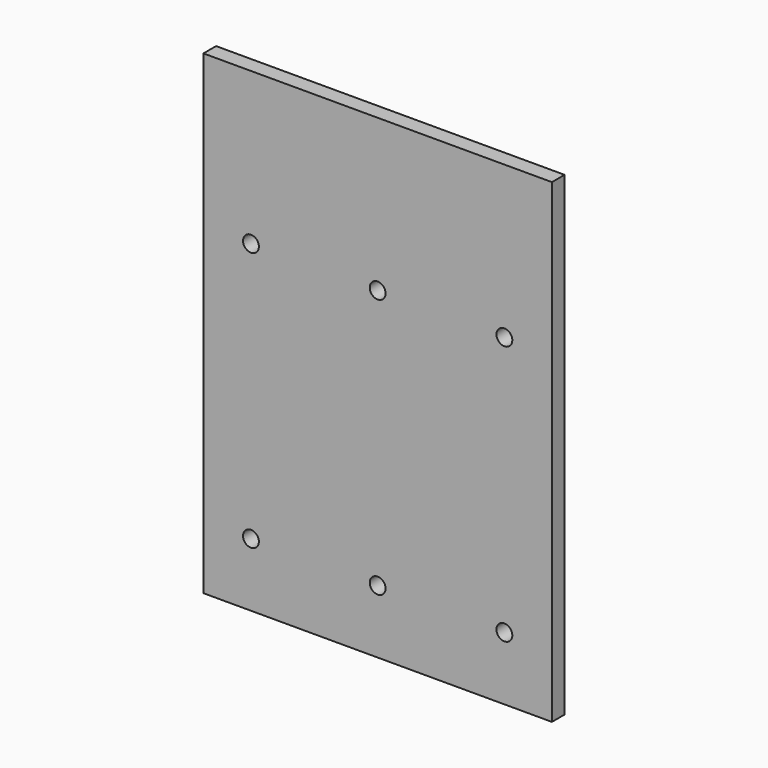
from build123d import *

# Parameters (mm, degrees)
F0_R     = 2.5
F1_DEPTH = 5


with BuildPart() as f1:
    # F0 (on Front) → F1 (new body)
    with BuildSketch(Plane.XZ):
        Polygon((-55, -75), (55, -75), (55, 75), (0, 75), (-55, 75), (-55, 38.300177), align=None)
        with Locations((-40, -55)):
            Circle(F0_R, mode=Mode.SUBTRACT)
        with Locations((0, -55)):
            Circle(F0_R, mode=Mode.SUBTRACT)
        with Locations((40, -55)):
            Circle(F0_R, mode=Mode.SUBTRACT)
        with Locations((-40, 27)):
            Circle(F0_R, mode=Mode.SUBTRACT)
        with Locations((0, 27)):
            Circle(F0_R, mode=Mode.SUBTRACT)
        with Locations((40, 27)):
            Circle(F0_R, mode=Mode.SUBTRACT)
    extrude(amount=F1_DEPTH)


solid = f1.part
